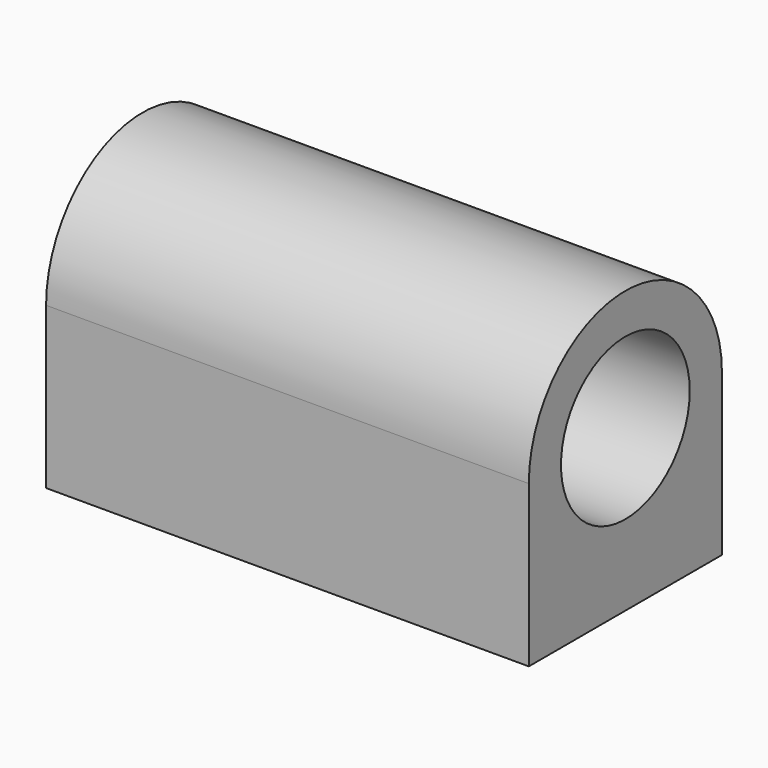
from build123d import *

# Parameters (mm, degrees)
F0_R     = 12.7
F1_DEPTH = 76.2
F2_R     = 1.651
F2_R_2   = 1.653546
F3_DEPTH = 12.7


with BuildPart() as f1:
    # F0 (on Right) → F1 (new body)
    with BuildSketch(Plane.YZ):
        with BuildLine():
            Line((19.05, -25.4), (19.05, 0))
            ThreePointArc((19.05, 0), (0, 19.05), (-19.05, 0))
            Line((-19.05, 0), (-19.05, -25.4))
            Line((-19.05, -25.4), (19.05, -25.4))
        make_face()
        Circle(F0_R, mode=Mode.SUBTRACT)
    extrude(amount=-F1_DEPTH)

    # F2 (on face) → F3 (cut)
    with BuildSketch(Plane(origin=(0, 0, -25.4), x_dir=(1, 0, 0), z_dir=(0, 0, -1))):
        with Locations((-69.85, 12.7)):
            Circle(F2_R)
        with Locations((-6.35, 12.7)):
            Circle(F2_R_2)
        with Locations((-6.35, -12.7)):
            Circle(F2_R)
        with Locations((-69.85, -12.7)):
            Circle(F2_R)
    extrude(amount=-F3_DEPTH, mode=Mode.SUBTRACT)


solid = f1.part
